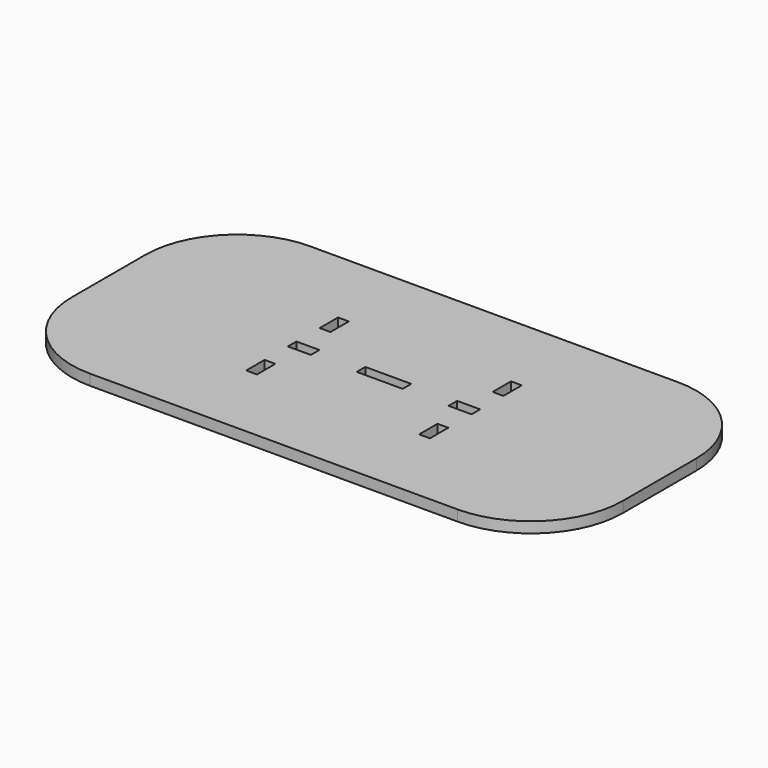
from build123d import *

# Parameters (mm, degrees)
F0_W     = 152.4
F0_H     = 76.2
F1_DEPTH = 2.9718
F2_R     = 25.4
F3_W     = 12.7
F3_H     = 2.9718
F3_W_2   = 6.35
F4_DEPTH = 25.4
F5_W     = 2.9718
F5_H     = 6.35
F6_DEPTH = 25.4


with BuildPart() as f1:
    # F0 (on Top) → F1 (new body)
    with BuildSketch(Plane.XY):
        Rectangle(F0_W, F0_H)
    extrude(amount=F1_DEPTH)

    # F2
    f2_edges = [f1.edges().sort_by_distance(p)[0] for p in [
        (-76.2, -38.1, 1.4859),
        (76.2, -38.1, 1.4859),
        (76.2, 38.1, 1.4859),
        (-76.2, 38.1, 1.4859),
    ]]
    fillet(f2_edges, radius=F2_R)

    # F3 (on face) → F4 (cut)
    with BuildSketch(Plane.XY.offset(2.9718)):
        Rectangle(F3_W, F3_H)
        with Locations((22.225, 0)):
            Rectangle(F3_W_2, F3_H)
        with Locations((-22.225, 0)):
            Rectangle(F3_W_2, F3_H)
    extrude(amount=-F4_DEPTH, mode=Mode.SUBTRACT)

    # F5 (on face) → F6 (cut)
    with BuildSketch(Plane.XY.offset(2.9718)):
        with Locations((23.9141, 12.7)):
            Rectangle(F5_W, F5_H)
        with Locations((23.9141, -12.7)):
            Rectangle(F5_W, F5_H)
        with Locations((-23.9141, 12.7)):
            Rectangle(F5_W, F5_H)
        with Locations((-23.9141, -12.7)):
            Rectangle(F5_W, F5_H)
    extrude(amount=-F6_DEPTH, mode=Mode.SUBTRACT)


solid = f1.part
